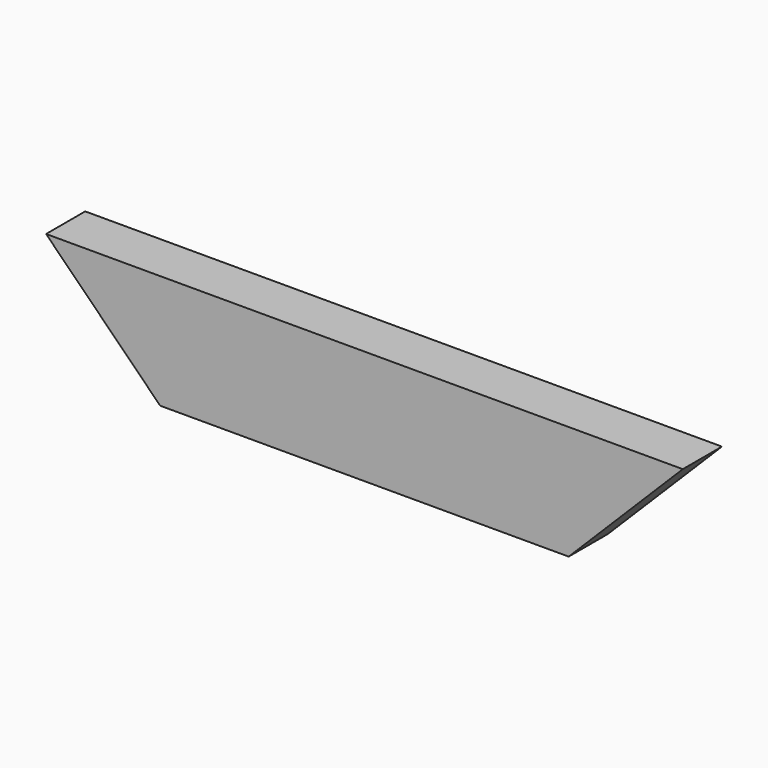
from build123d import *

# Parameters (mm, degrees)
F1_DEPTH = 38.1
F2_DEPTH = 38.1
F3_DEPTH = 38.1


with BuildPart() as f1:
    # F0 (on Front) → F1 (new body)
    with BuildSketch(Plane.XZ):
        Polygon((159.819499, 0), (248.719499, 0), (248.719499, 88.9), align=None)
        Polygon((-158.442501, 0), (159.819499, 0), (248.719499, 88.9), (-247.342501, 88.9), align=None)
        Polygon((-247.342501, 0), (-158.442501, 0), (-247.342501, 88.9), align=None)
    extrude(amount=F1_DEPTH)

    # F0 (on Front) → F2 (cut)
    with BuildSketch(Plane.XZ):
        Polygon((-247.342501, 0), (-158.442501, 0), (-247.342501, 88.9), align=None)
    extrude(amount=F2_DEPTH, mode=Mode.SUBTRACT)

    # F0 (on Front) → F3 (cut)
    with BuildSketch(Plane.XZ):
        Polygon((159.819499, 0), (248.719499, 0), (248.719499, 88.9), align=None)
    extrude(amount=F3_DEPTH, mode=Mode.SUBTRACT)


solid = f1.part
